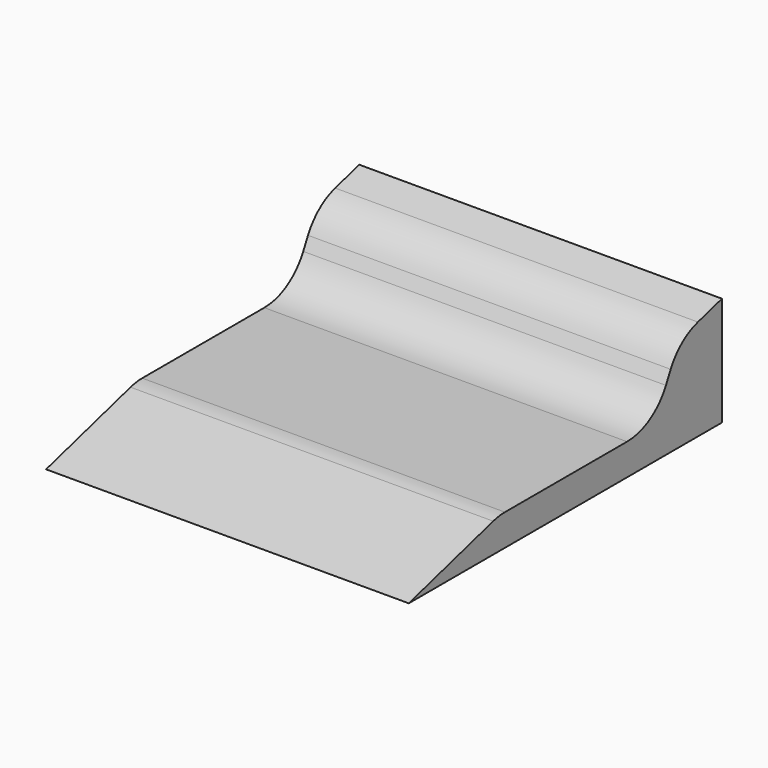
from build123d import *

# Parameters (mm, degrees)
F1_DEPTH = 133
F2_R     = 20


with BuildPart() as f1:
    # F0 (on Right) → F1 (new body)
    with BuildSketch(Plane.YZ):
        Polygon((-31.488675, -9.528097), (-72.819769, -21.046512), (70.710715, -21.046512), (70.710715, 18.953488), (51.226363, 13.523463), (39.479751, -9.528097), align=None)
    extrude(amount=F1_DEPTH)

    # F2
    f2_edges = [f1.edges().sort_by_distance(p)[0] for p in [
        (66.5, 39.479751, -9.528097),
        (66.5, -31.488675, -9.528097),
        (66.5, 51.226363, 13.523463),
    ]]
    fillet(f2_edges, radius=F2_R)


solid = f1.part
